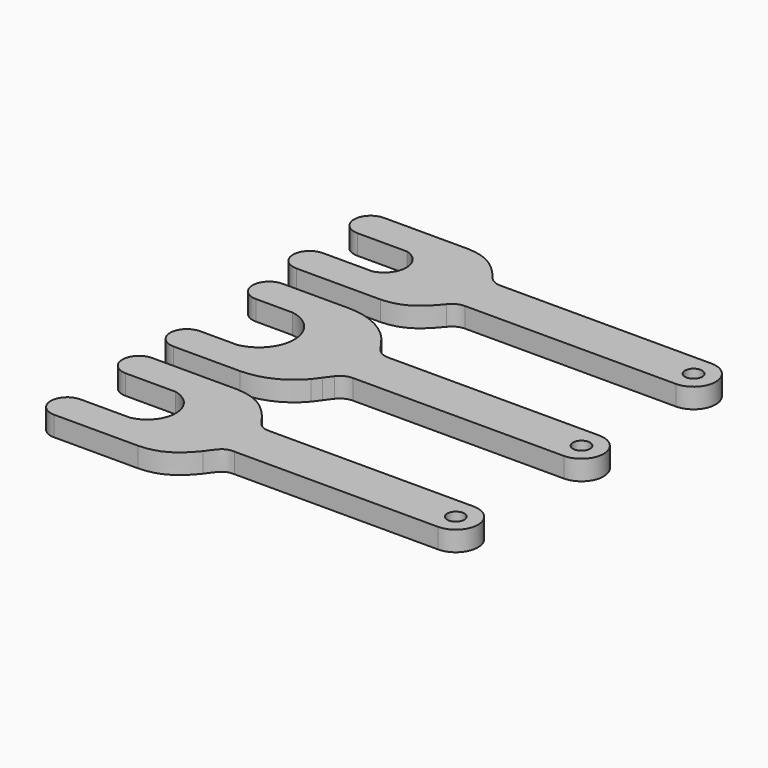
from build123d import *

# Parameters (mm, degrees)
F0_R     = 2.573066
F1_DEPTH = 6
F2_R     = 2.573066
F3_DEPTH = 6
F4_R     = 2.573066
F5_DEPTH = 6


with BuildPart() as f1:
    # F0 (on Top) → F1 (new body)
    with BuildSketch(Plane.XY):
        with BuildLine():
            ThreePointArc((1.678139, 10.5), (10.633257, 0), (1.678139, -10.5))
            Line((1.678139, -10.5), (-4.690416, -10.5))
            Line((-4.690416, -10.5), (-9.332535, -10.5))
            ThreePointArc((-9.332535, -10.5), (-14.332535, -15.5), (-9.332535, -20.5))
            Line((-9.332535, -20.5), (10.633257, -20.5))
            ThreePointArc((10.633257, -20.5), (19.252415, -18.600003), (26.273878, -13.252207))
            Line((26.273878, -13.252207), (27.901342, -11.048223))
            Line((27.901342, -11.048223), (29.634343, -8.701317))
            ThreePointArc((29.634343, -8.701317), (31.403873, -7.20765), (33.65659, -6.671423))
            Line((33.65659, -6.671423), (97.172417, -6.671423))
            ThreePointArc((97.172417, -6.671423), (103.843839, 0), (97.172417, 6.671423))
            Line((97.172417, 6.671423), (33.65659, 6.671423))
            ThreePointArc((33.65659, 6.671423), (31.403873, 7.20765), (29.634343, 8.701317))
            Line((29.634343, 8.701317), (27.901342, 11.048223))
            Line((27.901342, 11.048223), (26.273878, 13.252207))
            ThreePointArc((26.273878, 13.252207), (19.252415, 18.600003), (10.633257, 20.5))
            Line((10.633257, 20.5), (-9.332535, 20.5))
            ThreePointArc((-9.332535, 20.5), (-14.332535, 15.5), (-9.332535, 10.5))
            Line((-9.332535, 10.5), (-4.690416, 10.5))
            Line((-4.690416, 10.5), (1.678139, 10.5))
        make_face()
        with Locations((97.172417, 0)):
            Circle(F0_R, mode=Mode.SUBTRACT)
    extrude(amount=F1_DEPTH)


with BuildPart() as f3:
    # F2 (on Top) → F3 (new body)
    with BuildSketch(Plane.XY):
        with BuildLine():
            ThreePointArc((3.283854, 51.622033), (8.318847, 45.122033), (3.283854, 38.622033))
            Line((3.283854, 38.622033), (-3.084701, 38.622033))
            Line((-3.084701, 38.622033), (-11.646944, 38.622033))
            ThreePointArc((-11.646944, 38.622033), (-16.646944, 33.622033), (-11.646944, 28.622033))
            Line((-11.646944, 28.622033), (13.652892, 28.622033))
            add(Edge.make_bspline(
                [(13.652892, 28.622033), (19.784534, 28.809249), (23.361327, 31.568489), (27.319934, 36.420716)],
                knots=[0, 0, 0, 0, 15.735549, 15.735549, 15.735549, 15.735549], degree=3))
            ThreePointArc((27.319934, 36.420716), (29.089464, 37.914382), (31.342181, 38.45061))
            Line((31.342181, 38.45061), (94.858007, 38.45061))
            ThreePointArc((94.858007, 38.45061), (101.52943, 45.122033), (94.858007, 51.793455))
            Line((94.858007, 51.793455), (31.342181, 51.793455))
            ThreePointArc((31.342181, 51.793455), (29.089464, 52.329683), (27.319934, 53.82335))
            add(Edge.make_bspline(
                [(13.652892, 61.622033), (19.784534, 61.434817), (23.361327, 58.675576), (27.319934, 53.82335)],
                knots=[0, 0, 0, 0, 15.735549, 15.735549, 15.735549, 15.735549], degree=3))
            Line((13.652892, 61.622033), (-11.646944, 61.622033))
            ThreePointArc((-11.646944, 61.622033), (-16.646944, 56.622033), (-11.646944, 51.622033))
            Line((-11.646944, 51.622033), (-3.084701, 51.622033))
            Line((-3.084701, 51.622033), (3.283854, 51.622033))
        make_face()
        with Locations((94.858007, 45.122033)):
            Circle(F2_R, mode=Mode.SUBTRACT)
    extrude(amount=F3_DEPTH)


with BuildPart() as f5:
    # F4 (on Top) → F5 (new body)
    with BuildSketch(Plane.XY):
        with BuildLine():
            ThreePointArc((5.329421, -38.208221), (12.315355, -46.708221), (5.329421, -55.208221))
            Line((5.329421, -55.208221), (-1.039134, -55.208221))
            Line((-1.039134, -55.208221), (-9.601377, -55.208221))
            ThreePointArc((-9.601377, -55.208221), (-14.601377, -60.208221), (-9.601377, -65.208221))
            Line((-9.601377, -65.208221), (15.698459, -65.208221))
            add(Edge.make_bspline(
                [(15.698459, -65.208221), (21.830102, -65.021005), (25.406895, -62.649587), (29.365501, -57.79736)],
                knots=[0, 0, 0, 0, 15.54699, 15.54699, 15.54699, 15.54699], degree=3))
            add(Edge.make_bspline(
                [(35.24185, -53.378221), (32.568149, -53.378221), (31.917792, -54.173104), (29.365501, -57.79736)],
                knots=[0, 0, 0, 0, 7.352569, 7.352569, 7.352569, 7.352569], degree=3))
            Line((35.24185, -53.378221), (96.666954, -53.378221))
            ThreePointArc((96.666954, -53.378221), (103.336954, -46.708221), (96.666954, -40.038221))
            Line((96.666954, -40.038221), (35.24185, -40.038221))
            add(Edge.make_bspline(
                [(35.24185, -40.038221), (32.568149, -40.038221), (31.917792, -39.243337), (29.365501, -35.619081)],
                knots=[0, 0, 0, 0, 7.352569, 7.352569, 7.352569, 7.352569], degree=3))
            add(Edge.make_bspline(
                [(15.698459, -28.208221), (21.830102, -28.395437), (25.406895, -30.766854), (29.365501, -35.619081)],
                knots=[0, 0, 0, 0, 15.54699, 15.54699, 15.54699, 15.54699], degree=3))
            Line((15.698459, -28.208221), (-9.601377, -28.208221))
            ThreePointArc((-9.601377, -28.208221), (-14.601377, -33.208221), (-9.601377, -38.208221))
            Line((-9.601377, -38.208221), (-1.039134, -38.208221))
            Line((-1.039134, -38.208221), (5.329421, -38.208221))
        make_face()
        with Locations((96.666954, -46.708221)):
            Circle(F4_R, mode=Mode.SUBTRACT)
    extrude(amount=F5_DEPTH)


solid = Compound([f1.part, f3.part, f5.part])
